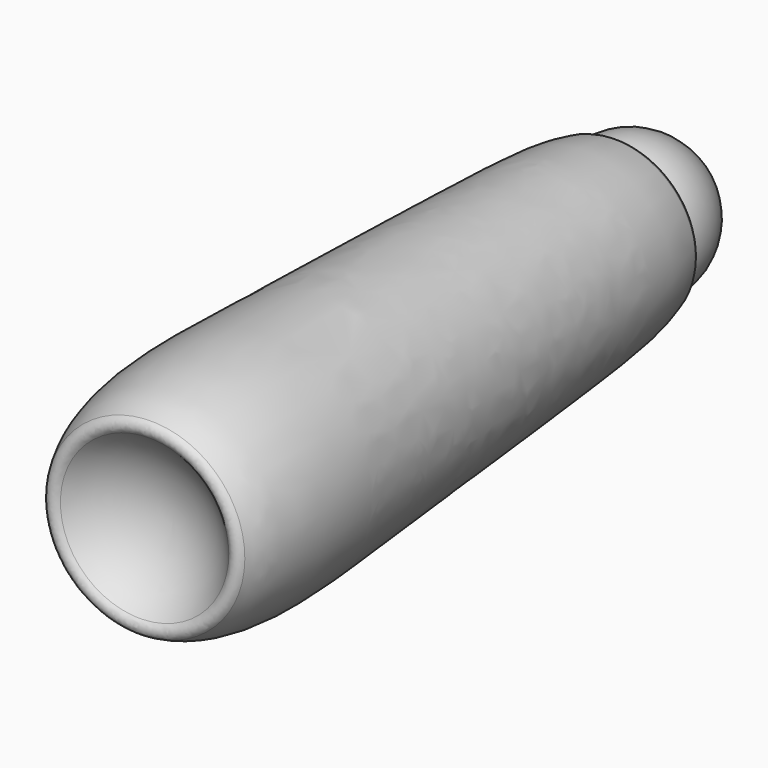
from build123d import *

# Parameters (mm, degrees)
FILLET061_R             = 3
FILLET062_R             = 3
BODY038_ROLL_ANGLE      = -89.407286
BODY038_PITCH_ANGLE     = 0.988482
BODY038_PLACEMENT_ANGLE = 93.884029


with BuildPart() as part:
    # Sketch128 → Revolution067 (revolve)
    with BuildSketch(Plane.XY):
        with BuildLine():
            Line((5.147949, 0), (267.265, 0))
            add(Edge.make_bspline(
                [(267.265, 0), (263.840897, 29.07099), (216.842712, 33.126465), (91.435905, 38.640092), (3.238657, 43.599544), (5.147949, 0)],
                knots=[0, 0, 0, 0, 0.333333, 0.666667, 1, 1, 1, 1], degree=3))
        make_face()
    revolve(axis=Axis((0, 0, 0), (1, 0, 0)))

    # Sketch129 → Groove060 (revolve, cut)
    with BuildSketch(Plane.XY):
        with BuildLine():
            Line((-35, 0), (35, 0))
            ThreePointArc((35, 0), (0, 35), (-35, 0))
        make_face()
    revolve(axis=Axis((0, 0, 0), (1, 0, 0)), mode=Mode.SUBTRACT)

    # Fillet061
    fillet061_edges = [part.edges().sort_by_distance(p)[0] for p in [
        (17.386166, -30.376327, 0),
    ]]
    fillet(fillet061_edges, radius=FILLET061_R)

    # Sketch130 → Groove061 (revolve, cut)
    with BuildSketch(Plane.XY):
        with BuildLine():
            Line((228, 0), (278, 0))
            ThreePointArc((278, 0), (253, 25), (228, 0))
        make_face()
    revolve(axis=Axis((0, 0, 0), (1, 0, 0)), mode=Mode.SUBTRACT)

    # Fillet062
    fillet062_edges = [part.edges().sort_by_distance(p)[0] for p in [
        (251.985595, -24.979411, 0),
    ]]
    fillet(fillet062_edges, radius=FILLET062_R)

    # Sketch130 → Revolution068 (revolve)
    with BuildSketch(Plane.XY):
        with BuildLine():
            Line((228, 0), (278, 0))
            ThreePointArc((278, 0), (253, 25), (228, 0))
        make_face()
    revolve(axis=Axis((0, 0, 0), (1, 0, 0)))


with BuildPart() as part_1:
    # Body038 roll: moved
    add(part.part.rotate(Axis((0, 0, 0), (1, 0, 0)), BODY038_ROLL_ANGLE))


with BuildPart() as part_2:
    # Body038 pitch: moved
    add(part_1.part.rotate(Axis((0, 0, 0), (0, 1, 0)), BODY038_PITCH_ANGLE))


with BuildPart() as part_3:
    # Body038 placement: moved
    add(part_2.part.moved(Location((178.756218, 1764.318739, 86.745709))).rotate(Axis((178.756218, 1764.318739, 86.745709), (0, 0, 1)), BODY038_PLACEMENT_ANGLE))


solid = part_3.part
